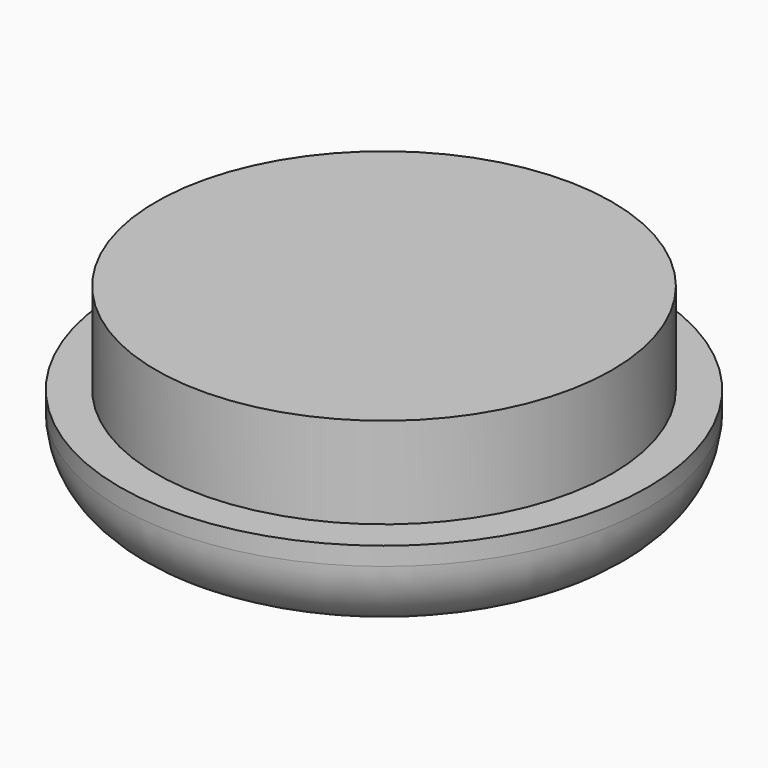
from build123d import *

# Parameters (mm, degrees)
F0_R     = 7.9375
F1_DEPTH = 6.35
F0_R_2   = 9.19734
F2_DEPTH = 3.175
F3_R     = 2.54


with BuildPart() as f1:
    # F0 (on Top) → F1 (new body)
    with BuildSketch(Plane.XY):
        Circle(F0_R)
    extrude(amount=F1_DEPTH)

    # F0 (on Top) → F2 (join)
    with BuildSketch(Plane.XY):
        Circle(F0_R_2)
        Circle(F0_R, mode=Mode.SUBTRACT)
    extrude(amount=F2_DEPTH)

    # F3
    f3_edges = [f1.edges().sort_by_distance(p)[0] for p in [
        (-9.19734, 0, 0),
    ]]
    fillet(f3_edges, radius=F3_R)


solid = f1.part
